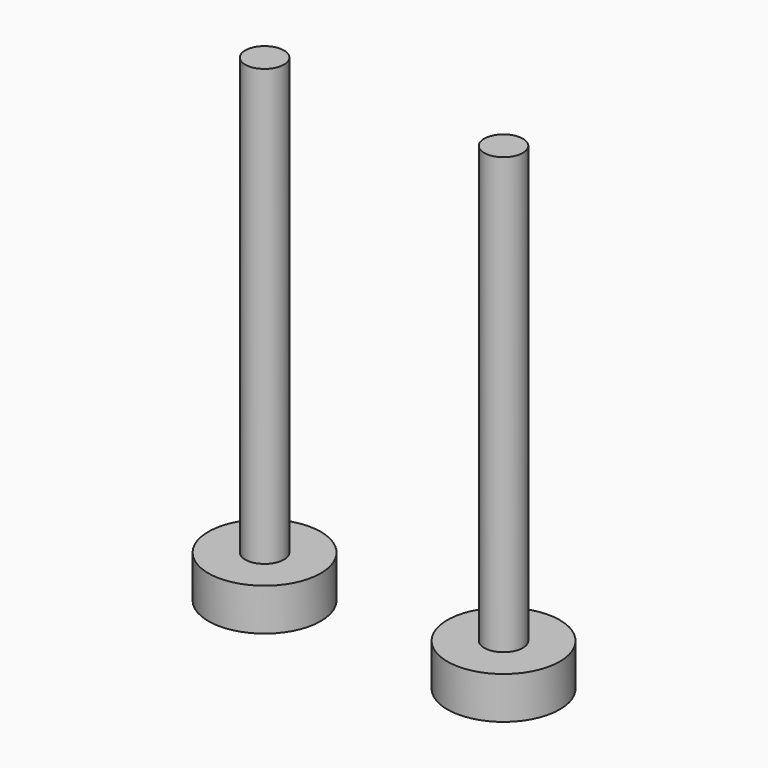
from build123d import *

# Parameters (mm, degrees)
F0_R     = 4
F0_R_2   = 1.375
F1_DEPTH = 3
F2_DEPTH = 34


with BuildPart() as f1:
    # F0 (on Top) → F1 (new body)
    with BuildSketch(Plane.XY):
        Circle(F0_R)
        Circle(F0_R_2, mode=Mode.SUBTRACT)
        Circle(F0_R_2)
    extrude(amount=F1_DEPTH)

    # F0 (on Top) → F2 (join)
    with BuildSketch(Plane.XY):
        Circle(F0_R_2)
    extrude(amount=F2_DEPTH)


with BuildPart() as f3_1:
    # F3: copy of F1
    add(f1.part.moved(Location((17, 0, 0))))


solid = Compound([f1.part, f3_1.part])
